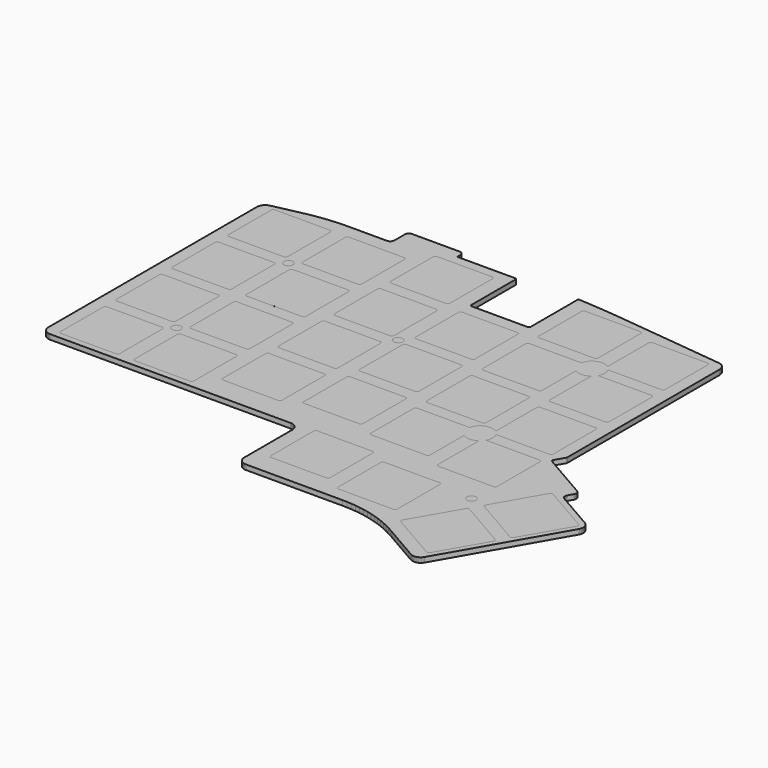
from build123d import *

# Parameters (mm, degrees)
EXTRUDE_DEPTH    = 1.2
FACE001_R        = 1.1
EXTRUDE001_DEPTH = 1.2
FACE002_R        = 1.1
EXTRUDE002_DEPTH = 1.2
FACE003_R        = 1.1
EXTRUDE003_DEPTH = 1.2
FACE004_R        = 1.1
EXTRUDE004_DEPTH = 1.2
EXTRUDE005_DEPTH = 1.2
EXTRUDE006_DEPTH = 1.2
EXTRUDE007_DEPTH = 1.2
EXTRUDE008_DEPTH = 1.2
EXTRUDE009_DEPTH = 1.2
EXTRUDE010_DEPTH = 1.2
EXTRUDE011_DEPTH = 1.2
EXTRUDE012_DEPTH = 1.2
EXTRUDE013_DEPTH = 1.2
EXTRUDE014_DEPTH = 1.2
EXTRUDE015_DEPTH = 1.2
EXTRUDE016_DEPTH = 1.2
EXTRUDE017_DEPTH = 1.2
EXTRUDE018_DEPTH = 1.2
EXTRUDE019_DEPTH = 1.2
EXTRUDE020_DEPTH = 1.2
EXTRUDE021_DEPTH = 1.2
EXTRUDE022_DEPTH = 1.2
EXTRUDE023_DEPTH = 1.2
EXTRUDE024_DEPTH = 1.2
EXTRUDE025_DEPTH = 1.2
EXTRUDE026_DEPTH = 1.2
EXTRUDE027_DEPTH = 1.2


with BuildPart() as extrude_body:
    # Face → Extrude (new body)
    with BuildSketch(Plane(origin=(83.528561, -187.454563, 0), x_dir=(0, 1, 0), z_dir=(0, 0, 1))):
        with BuildLine():
            Line((-46.74408, -1.999309), (-46.764437, -2.283939))
            Line((-46.764437, -2.283939), (-46.764437, -25.713963))
            Line((-46.764437, -25.713963), (-46.785404, -26.835699))
            Line((-46.785404, -26.835699), (-46.848312, -27.955866))
            Line((-46.848312, -27.955866), (-46.953061, -29.072898))
            Line((-46.953061, -29.072898), (-47.099503, -30.185232))
            Line((-47.099503, -30.185232), (-47.287434, -31.291312))
            Line((-47.287434, -31.291312), (-47.516592, -32.389592))
            Line((-47.516592, -32.389592), (-47.786656, -33.478535))
            Line((-47.786656, -33.478535), (-48.097247, -34.556619))
            Line((-48.097247, -34.556619), (-48.447932, -35.622336))
            Line((-48.447932, -35.622336), (-48.83822, -36.674194))
            Line((-48.83822, -36.674194), (-49.267566, -37.710724))
            Line((-49.267566, -37.710724), (-49.735369, -38.730476))
            Line((-49.735369, -38.730476), (-50.240974, -39.732022))
            Line((-50.240974, -39.732022), (-50.783674, -40.713963))
            Line((-50.783674, -40.713963), (-56.024922, -49.792071))
            Line((-56.024922, -49.792071), (-56.149674, -50.049063))
            Line((-56.149674, -50.049063), (-56.236602, -50.321181))
            Line((-56.236602, -50.321181), (-56.283873, -50.602909))
            Line((-56.283873, -50.602909), (-56.290523, -50.888497))
            Line((-56.290523, -50.888497), (-56.256416, -51.172119))
            Line((-56.256416, -51.172119), (-56.182248, -51.447989))
            Line((-56.182248, -51.447989), (-56.069532, -51.710477))
            Line((-56.069532, -51.710477), (-55.920568, -51.954228))
            Line((-55.920568, -51.954228), (-55.738395, -52.174269))
            Line((-55.738395, -52.174269), (-55.526731, -52.366111))
            Line((-55.526731, -52.366111), (-55.289893, -52.525838))
            Line((-55.289893, -52.525838), (-28.044804, -68.193418))
            Line((-28.044804, -68.193418), (-27.787888, -68.317606))
            Line((-27.787888, -68.317606), (-27.515938, -68.40403))
            Line((-27.515938, -68.40403), (-27.234457, -68.45087))
            Line((-27.234457, -68.45087), (-26.949174, -68.457176))
            Line((-26.949174, -68.457176), (-26.665898, -68.422817))
            Line((-26.665898, -68.422817), (-26.390396, -68.348493))
            Line((-26.390396, -68.348493), (-26.128274, -68.235718))
            Line((-26.128274, -68.235718), (-25.884871, -68.086786))
            Line((-25.884871, -68.086786), (-25.66514, -67.904731))
            Line((-25.66514, -67.904731), (-25.473554, -67.693258))
            Line((-25.473554, -67.693258), (-25.314015, -67.456672))
            Line((-25.314015, -67.456672), (-19.989485, -58.197597))
            Line((-19.989485, -58.197597), (-19.875475, -58.037864))
            Line((-19.875475, -58.037864), (-19.732419, -57.903512))
            Line((-19.732419, -57.903512), (-19.565879, -57.799686))
            Line((-19.565879, -57.799686), (-19.382269, -57.730384))
            Line((-19.382269, -57.730384), (-19.18866, -57.698275))
            Line((-19.18866, -57.698275), (-18.992508, -57.704596))
            Line((-18.992508, -57.704596), (-18.801368, -57.749103))
            Line((-18.801368, -57.749103), (-18.622601, -57.830082))
            Line((-18.622601, -57.830082), (-17.408027, -58.531317))
            Line((-17.408027, -58.531317), (-17.229463, -58.61221))
            Line((-17.229463, -58.61221), (-17.038552, -58.65672))
            Line((-17.038552, -58.65672), (-16.842625, -58.663132))
            Line((-16.842625, -58.663132), (-16.649212, -58.631199))
            Line((-16.649212, -58.631199), (-16.465744, -58.562148))
            Line((-16.465744, -58.562148), (-16.299272, -58.458633))
            Line((-16.299272, -58.458633), (-16.156192, -58.324631))
            Line((-16.156192, -58.324631), (-16.042002, -58.165291))
            Line((-16.042002, -58.165291), (-15.35662, -56.978176))
            Line((-15.35662, -56.978176), (-10.781694, -49.054171))
            Line((-10.781694, -49.054171), (-9.550748, -46.922151))
            ThreePointArc((-9.550748, -46.922151), (-9.247141, -46.68919), (-8.86773, -46.739147))
            Line((-8.86773, -46.739147), (-6.632956, -48.029447))
            ThreePointArc((-6.632956, -48.029447), (-6.512363, -48.0794), (-6.382949, -48.096439))
            Line((-6.382949, -48.096439), (39.834935, -48.096439))
            Line((39.834935, -48.096439), (40.126083, -48.075109))
            Line((40.126083, -48.075109), (40.411029, -48.01165))
            Line((40.411029, -48.01165), (40.683701, -47.907386))
            Line((40.683701, -47.907386), (40.93829, -47.764538))
            Line((40.93829, -47.764538), (41.169372, -47.58615))
            Line((41.169372, -47.58615), (41.372023, -47.376022))
            Line((41.372023, -47.376022), (41.541925, -47.138632))
            Line((41.541925, -47.138632), (41.675459, -46.879036))
            Line((41.675459, -46.879036), (41.76978, -46.602767))
            Line((41.76978, -46.602767), (41.822878, -46.31571))
            Line((41.822878, -46.31571), (44.670839, -20.495626))
            Line((44.670839, -20.495626), (44.953186, -17.763796))
            Line((44.953186, -17.763796), (45.197998, -15.028347))
            Line((45.197998, -15.028347), (45.405225, -12.289794))
            Line((45.405225, -12.289794), (45.574828, -9.548654))
            Line((45.574828, -9.548654), (45.580369, -9.43345))
            ThreePointArc((45.580369, -9.43345), (45.511631, -9.248961), (45.330658, -9.171439))
            Line((45.330658, -9.171439), (31.204563, -9.171439))
            ThreePointArc((31.204563, -9.171439), (30.85101, -9.024992), (30.704563, -8.671439))
            Line((30.704563, -8.671439), (30.704563, 4.728561))
            ThreePointArc((30.704563, 4.728561), (30.85101, 5.082115), (31.204563, 5.228561))
            Line((31.204563, 5.228561), (44.626457, 5.228561))
            ThreePointArc((44.626457, 5.228561), (44.803234, 5.301785), (44.876457, 5.478562))
            Line((44.876457, 5.478562), (44.876438, 19.434811))
            ThreePointArc((44.876438, 19.434811), (44.949661, 19.611588), (45.126438, 19.684811))
            Line((45.126438, 19.684811), (45.845213, 19.684811))
            Line((45.845213, 19.684811), (46.040307, 19.704017))
            Line((46.040307, 19.704017), (46.227904, 19.760918))
            Line((46.227904, 19.760918), (46.400795, 19.853326))
            Line((46.400795, 19.853326), (46.552334, 19.97769))
            Line((46.552334, 19.97769), (46.676698, 20.129229))
            Line((46.676698, 20.129229), (46.769106, 20.30212))
            Line((46.769106, 20.30212), (46.826007, 20.489717))
            Line((46.826007, 20.489717), (46.845213, 20.684811))
            Line((46.845213, 20.684811), (46.845213, 32.184811))
            Line((46.845213, 32.184811), (46.826007, 32.379905))
            Line((46.826007, 32.379905), (46.769106, 32.567502))
            Line((46.769106, 32.567502), (46.676698, 32.740393))
            Line((46.676698, 32.740393), (46.552334, 32.891932))
            Line((46.552334, 32.891932), (46.400795, 33.016296))
            Line((46.400795, 33.016296), (46.227904, 33.108704))
            Line((46.227904, 33.108704), (46.040307, 33.165605))
            Line((46.040307, 33.165605), (45.845213, 33.184811))
            Line((45.845213, 33.184811), (42.688963, 33.184811))
            Line((42.688963, 33.184811), (42.493879, 33.204074))
            Line((42.493879, 33.204074), (42.306291, 33.260977))
            Line((42.306291, 33.260977), (42.133408, 33.353381))
            Line((42.133408, 33.353381), (41.981874, 33.477737))
            Line((41.981874, 33.477737), (41.857511, 33.629265))
            Line((41.857511, 33.629265), (41.765098, 33.802143))
            Line((41.765098, 33.802143), (41.708186, 33.989728))
            Line((41.708186, 33.989728), (41.688963, 34.184811))
            Line((41.688963, 34.184811), (41.688963, 43.251887))
            Line((41.688963, 43.251887), (41.666073, 44.76484))
            Line((41.666073, 44.76484), (41.597406, 46.276407))
            Line((41.597406, 46.276407), (41.483033, 47.785204))
            Line((41.483033, 47.785204), (41.323057, 49.28985))
            Line((41.323057, 49.28985), (41.117625, 50.788966))
            Line((41.117625, 50.788966), (40.866926, 52.281179))
            Line((40.866926, 52.281179), (40.571188, 53.765123))
            Line((40.571188, 53.765123), (39.106765, 60.57409))
            Line((39.106765, 60.57409), (39.031754, 60.835106))
            Line((39.031754, 60.835106), (38.922086, 61.083559))
            Line((38.922086, 61.083559), (38.779768, 61.314863))
            Line((38.779768, 61.314863), (38.607427, 61.524753))
            Line((38.607427, 61.524753), (38.408239, 61.709361))
            Line((38.408239, 61.709361), (38.185878, 61.865281))
            Line((38.185878, 61.865281), (37.944443, 61.989639))
            Line((37.944443, 61.989639), (37.688386, 62.080142))
            Line((37.688386, 62.080142), (37.422429, 62.13512))
            Line((37.422429, 62.13512), (37.151476, 62.153561))
            Line((37.151476, 62.153561), (-26.170437, 62.153561))
            Line((-26.170437, 62.153561), (-26.455067, 62.133204))
            Line((-26.455067, 62.133204), (-26.733902, 62.072547))
            Line((-26.733902, 62.072547), (-27.001267, 61.972825))
            Line((-27.001267, 61.972825), (-27.251719, 61.836068))
            Line((-27.251719, 61.836068), (-27.480158, 61.66506))
            Line((-27.480158, 61.66506), (-27.681936, 61.463282))
            Line((-27.681936, 61.463282), (-27.852944, 61.234843))
            Line((-27.852944, 61.234843), (-27.989701, 60.984391))
            Line((-27.989701, 60.984391), (-28.089423, 60.717026))
            Line((-28.089423, 60.717026), (-28.15008, 60.438191))
            Line((-28.15008, 60.438191), (-28.170437, 60.153561))
            Line((-28.170437, 60.153561), (-28.170437, 1.716061))
            Line((-28.170437, 1.716061), (-28.190794, 1.431431))
            Line((-28.190794, 1.431431), (-28.251451, 1.152596))
            Line((-28.251451, 1.152596), (-28.351173, 0.885231))
            Line((-28.351173, 0.885231), (-28.48793, 0.634779))
            Line((-28.48793, 0.634779), (-28.658938, 0.40634))
            Line((-28.658938, 0.40634), (-28.860716, 0.204562))
            Line((-28.860716, 0.204562), (-29.089155, 0.033554))
            Line((-29.089155, 0.033554), (-29.339607, -0.103203))
            Line((-29.339607, -0.103203), (-29.606972, -0.202925))
            Line((-29.606972, -0.202925), (-29.885807, -0.263582))
            Line((-29.885807, -0.263582), (-30.170437, -0.283939))
            Line((-30.170437, -0.283939), (-44.764437, -0.283939))
            Line((-44.764437, -0.283939), (-45.049067, -0.304296))
            Line((-45.049067, -0.304296), (-45.327902, -0.364953))
            Line((-45.327902, -0.364953), (-45.595267, -0.464675))
            Line((-45.595267, -0.464675), (-45.845719, -0.601432))
            Line((-45.845719, -0.601432), (-46.074158, -0.77244))
            Line((-46.074158, -0.77244), (-46.275936, -0.974218))
            Line((-46.275936, -0.974218), (-46.446944, -1.202657))
            Line((-46.446944, -1.202657), (-46.583701, -1.453109))
            Line((-46.583701, -1.453109), (-46.683423, -1.720474))
            Line((-46.683423, -1.720474), (-46.74408, -1.999309))
        make_face()
    extrude(amount=EXTRUDE_DEPTH)


with BuildPart() as extrude001:
    # Face001 → Extrude001 (new body)
    with BuildSketch(Plane(origin=(76.5, -176.3125, 0), x_dir=(0, 1, 0), z_dir=(0, 0, 1))):
        Circle(FACE001_R)
    extrude(amount=EXTRUDE001_DEPTH)


with BuildPart() as extrude002:
    # Face002 → Extrude002 (new body)
    with BuildSketch(Plane(origin=(40.5, -164.625, 0), x_dir=(0, 1, 0), z_dir=(0, 0, 1))):
        Circle(FACE002_R)
    extrude(amount=EXTRUDE002_DEPTH)


with BuildPart() as extrude003:
    # Face003 → Extrude003 (new body)
    with BuildSketch(Plane(origin=(128, -218.4375, 0), x_dir=(0, 1, 0), z_dir=(0, 0, 1))):
        Circle(FACE003_R)
    extrude(amount=EXTRUDE003_DEPTH)


with BuildPart() as extrude004:
    # Face004 → Extrude004 (new body)
    with BuildSketch(Plane(origin=(40.5, -198.625, 0), x_dir=(0, 1, 0), z_dir=(0, 0, 1))):
        Circle(FACE004_R)
    extrude(amount=EXTRUDE004_DEPTH)


with BuildPart() as extrude005:
    # Face005 → Extrude005 (new body)
    with BuildSketch(Plane(origin=(141.250018, -216.764028, 0), x_dir=(0, 1, 0), z_dir=(0, 0, 1))):
        with BuildLine():
            Line((2.712311, -9.302663), (9.412337, 2.302706))
            ThreePointArc((9.412337, 2.302706), (9.46228, 2.682112), (9.229319, 2.98571))
            Line((9.229319, 2.98571), (-2.029054, 9.485718))
            ThreePointArc((-2.029054, 9.485718), (-2.408463, 9.535668), (-2.712066, 9.302706))
            Line((-2.712066, 9.302706), (-9.412458, -2.302658))
            ThreePointArc((-9.412458, -2.302658), (-9.462408, -2.682072), (-9.22944, -2.985676))
            Line((-9.22944, -2.985676), (2.0293, -9.485689))
            ThreePointArc((2.0293, -9.485689), (2.408711, -9.535633), (2.712311, -9.302663))
        make_face()
    extrude(amount=EXTRUDE005_DEPTH)


with BuildPart() as extrude006:
    # Face006 → Extrude006 (new body)
    with BuildSketch(Plane(origin=(103.5, -185.875, 0), x_dir=(0, 1, 0), z_dir=(0, 0, 1))):
        with BuildLine():
            ThreePointArc((6.5, -7.2), (6.853553, -7.053553), (7, -6.7))
            Line((7, -6.7), (7, 6.7))
            ThreePointArc((7, 6.7), (6.853553, 7.053553), (6.5, 7.2))
            Line((6.5, 7.2), (-6.5, 7.2))
            ThreePointArc((-6.5, 7.2), (-6.853553, 7.053553), (-7, 6.7))
            Line((-7, 6.7), (-7, -6.7))
            ThreePointArc((-7, -6.7), (-6.853553, -7.053553), (-6.5, -7.2))
            Line((-6.5, -7.2), (6.5, -7.2))
        make_face()
    extrude(amount=EXTRUDE006_DEPTH)


with BuildPart() as extrude007:
    # Face007 → Extrude007 (new body)
    with BuildSketch(Plane(origin=(67.5, -202.875, 0), x_dir=(0, 1, 0), z_dir=(0, 0, 1))):
        with BuildLine():
            ThreePointArc((7, 6.7), (6.853553, 7.053553), (6.5, 7.2))
            Line((6.5, 7.2), (-6.5, 7.2))
            ThreePointArc((-6.5, 7.2), (-6.853553, 7.053553), (-7, 6.7))
            Line((-7, 6.7), (-7, -6.7))
            ThreePointArc((-7, -6.7), (-6.853553, -7.053553), (-6.5, -7.2))
            Line((-6.5, -7.2), (6.5, -7.2))
            ThreePointArc((6.5, -7.2), (6.853553, -7.053553), (7, -6.7))
            Line((7, -6.7), (7, 6.7))
        make_face()
    extrude(amount=EXTRUDE007_DEPTH)


with BuildPart() as extrude008:
    # Face008 → Extrude008 (new body)
    with BuildSketch(Plane(origin=(31.5, -190.125, 0), x_dir=(0, 1, 0), z_dir=(0, 0, 1))):
        with BuildLine():
            ThreePointArc((7, 6.7), (6.853553, 7.053553), (6.5, 7.2))
            Line((6.5, 7.2), (-6.5, 7.2))
            ThreePointArc((-6.5, 7.2), (-6.853553, 7.053553), (-7, 6.7))
            Line((-7, 6.7), (-7, -6.7))
            ThreePointArc((-7, -6.7), (-6.853553, -7.053553), (-6.5, -7.2))
            Line((-6.5, -7.2), (6.5, -7.2))
            ThreePointArc((6.5, -7.2), (6.853553, -7.053553), (7, -6.7))
            Line((7, -6.7), (7, 6.7))
        make_face()
    extrude(amount=EXTRUDE008_DEPTH)


with BuildPart() as extrude009:
    # Face009 → Extrude009 (new body)
    with BuildSketch(Plane(origin=(85.5, -166.75, 0), x_dir=(0, 1, 0), z_dir=(0, 0, 1))):
        with BuildLine():
            ThreePointArc((7, 6.7), (6.853553, 7.053553), (6.5, 7.2))
            Line((6.5, 7.2), (-6.5, 7.2))
            ThreePointArc((-6.5, 7.2), (-6.853553, 7.053553), (-7, 6.7))
            Line((-7, 6.7), (-7, -6.7))
            ThreePointArc((-7, -6.7), (-6.853553, -7.053553), (-6.5, -7.2))
            Line((-6.5, -7.2), (6.5, -7.2))
            ThreePointArc((6.5, -7.2), (6.853553, -7.053553), (7, -6.7))
            Line((7, -6.7), (7, 6.7))
        make_face()
    extrude(amount=EXTRUDE009_DEPTH)


with BuildPart() as extrude010:
    # Face010 → Extrude010 (new body)
    with BuildSketch(Plane(origin=(103.5, -151.875, 0), x_dir=(0, 1, 0), z_dir=(0, 0, 1))):
        with BuildLine():
            ThreePointArc((7, 6.7), (6.853553, 7.053553), (6.5, 7.2))
            Line((6.5, 7.2), (-6.5, 7.2))
            ThreePointArc((-6.5, 7.2), (-6.853553, 7.053553), (-7, 6.7))
            Line((-7, 6.7), (-7, -6.7))
            ThreePointArc((-7, -6.7), (-6.853553, -7.053553), (-6.5, -7.2))
            Line((-6.5, -7.2), (6.5, -7.2))
            ThreePointArc((6.5, -7.2), (6.853553, -7.053553), (7, -6.7))
            Line((7, -6.7), (7, 6.7))
        make_face()
    extrude(amount=EXTRUDE010_DEPTH)


with BuildPart() as extrude011:
    # Face011 → Extrude011 (new body)
    with BuildSketch(Plane(origin=(31.5, -156.125, 0), x_dir=(0, 1, 0), z_dir=(0, 0, 1))):
        with BuildLine():
            ThreePointArc((7, 6.7), (6.853553, 7.053553), (6.5, 7.2))
            Line((6.5, 7.2), (-6.5, 7.2))
            ThreePointArc((-6.5, 7.2), (-6.853553, 7.053553), (-7, 6.7))
            Line((-7, 6.7), (-7, -6.7))
            ThreePointArc((-7, -6.7), (-6.853553, -7.053553), (-6.5, -7.2))
            Line((-6.5, -7.2), (6.5, -7.2))
            ThreePointArc((6.5, -7.2), (6.853553, -7.053553), (7, -6.7))
            Line((7, -6.7), (7, 6.7))
        make_face()
    extrude(amount=EXTRUDE011_DEPTH)


with BuildPart() as extrude012:
    # Face012 → Extrude012 (new body)
    with BuildSketch(Plane(origin=(67.5, -151.875, 0), x_dir=(0, 1, 0), z_dir=(0, 0, 1))):
        with BuildLine():
            ThreePointArc((6.5, -7.2), (6.853553, -7.053553), (7, -6.7))
            Line((7, -6.7), (7, 6.7))
            ThreePointArc((7, 6.7), (6.853553, 7.053553), (6.5, 7.2))
            Line((6.5, 7.2), (-6.5, 7.2))
            ThreePointArc((-6.5, 7.2), (-6.853553, 7.053553), (-7, 6.7))
            Line((-7, 6.7), (-7, -6.7))
            ThreePointArc((-7, -6.7), (-6.853553, -7.053553), (-6.5, -7.2))
            Line((-6.5, -7.2), (6.5, -7.2))
        make_face()
    extrude(amount=EXTRUDE012_DEPTH)


with BuildPart() as extrude013:
    # Face013 → Extrude013 (new body)
    with BuildSketch(Plane(origin=(31.5, -173.125, 0), x_dir=(0, 1, 0), z_dir=(0, 0, 1))):
        with BuildLine():
            ThreePointArc((6.5, -7.2), (6.853553, -7.053553), (7, -6.7))
            Line((7, -6.7), (7, 6.7))
            ThreePointArc((7, 6.7), (6.853553, 7.053553), (6.5, 7.2))
            Line((6.5, 7.2), (-6.5, 7.2))
            ThreePointArc((-6.5, 7.2), (-6.853553, 7.053553), (-7, 6.7))
            Line((-7, 6.7), (-7, -6.7))
            ThreePointArc((-7, -6.7), (-6.853553, -7.053553), (-6.5, -7.2))
            Line((-6.5, -7.2), (6.5, -7.2))
        make_face()
    extrude(amount=EXTRUDE013_DEPTH)


with BuildPart() as extrude014:
    # Face014 → Extrude014 (new body)
    with BuildSketch(Plane(origin=(49.5, -207.125, 0), x_dir=(0, 1, 0), z_dir=(0, 0, 1))):
        with BuildLine():
            ThreePointArc((7, 6.7), (6.853553, 7.053553), (6.5, 7.2))
            Line((6.5, 7.2), (-6.5, 7.2))
            ThreePointArc((-6.5, 7.2), (-6.853553, 7.053553), (-7, 6.7))
            Line((-7, 6.7), (-7, -6.7))
            ThreePointArc((-7, -6.7), (-6.853553, -7.053553), (-6.5, -7.2))
            Line((-6.5, -7.2), (6.5, -7.2))
            ThreePointArc((6.5, -7.2), (6.853553, -7.053553), (7, -6.7))
            Line((7, -6.7), (7, 6.7))
        make_face()
    extrude(amount=EXTRUDE014_DEPTH)


with BuildPart() as extrude015:
    # Face015 → Extrude015 (new body)
    with BuildSketch(Plane(origin=(85.5, -200.75, 0), x_dir=(0, 1, 0), z_dir=(0, 0, 1))):
        with BuildLine():
            ThreePointArc((-7, -6.7), (-6.853553, -7.053553), (-6.5, -7.2))
            Line((-6.5, -7.2), (6.5, -7.2))
            ThreePointArc((6.5, -7.2), (6.853553, -7.053553), (7, -6.7))
            Line((7, -6.7), (7, 6.7))
            ThreePointArc((7, 6.7), (6.853553, 7.053553), (6.5, 7.2))
            Line((6.5, 7.2), (-6.5, 7.2))
            ThreePointArc((-6.5, 7.2), (-6.853553, 7.053553), (-7, 6.7))
            Line((-7, 6.7), (-7, -6.7))
        make_face()
    extrude(amount=EXTRUDE015_DEPTH)


with BuildPart() as extrude016:
    # Face016 → Extrude016 (new body)
    with BuildSketch(Plane(origin=(115.38354, -198.533525, 0), x_dir=(0, 1, 0), z_dir=(0, 0, 1))):
        with BuildLine():
            ThreePointArc((-11.341475, 5.18354), (-11.195029, 4.829987), (-10.841475, 4.68354))
            Line((-10.841475, 4.68354), (-0.490361, 4.68354))
            ThreePointArc((-0.490361, 4.68354), (-1.066475, 2.88354), (-0.490361, 1.08354))
            Line((-0.490361, 1.08354), (-12.966475, 1.08354))
            ThreePointArc((-12.966475, 1.08354), (-13.320029, 0.937093), (-13.466475, 0.58354))
            Line((-13.466475, 0.58354), (-13.466475, -12.81646))
            ThreePointArc((-13.466475, -12.81646), (-13.320029, -13.170013), (-12.966475, -13.31646))
            Line((-12.966475, -13.31646), (0.033525, -13.31646))
            ThreePointArc((0.033525, -13.31646), (0.387078, -13.170013), (0.533525, -12.81646))
            Line((0.533525, -12.81646), (0.533525, 0.170608))
            ThreePointArc((0.533525, 0.170608), (2.033525, -0.21646), (3.533525, 0.170608))
            Line((3.533525, 0.170608), (3.533525, -12.81646))
            ThreePointArc((3.533525, -12.81646), (3.679971, -13.170013), (4.033525, -13.31646))
            Line((4.033525, -13.31646), (17.033525, -13.31646))
            ThreePointArc((17.033525, -13.31646), (17.387078, -13.170013), (17.533525, -12.81646))
            Line((17.533525, -12.81646), (17.533525, 0.58354))
            ThreePointArc((17.533525, 0.58354), (17.387078, 0.937093), (17.033525, 1.08354))
            Line((17.033525, 1.08354), (4.55741, 1.08354))
            ThreePointArc((4.55741, 1.08354), (4.919079, 4.016491), (2.658525, 5.919882))
            Line((2.658525, 5.919882), (2.658525, 18.58354))
            ThreePointArc((2.658525, 18.58354), (2.512078, 18.937093), (2.158525, 19.08354))
            Line((2.158525, 19.08354), (-10.841475, 19.08354))
            ThreePointArc((-10.841475, 19.08354), (-11.195029, 18.937093), (-11.341475, 18.58354))
            Line((-11.341475, 18.58354), (-11.341475, 5.18354))
        make_face()
    extrude(amount=EXTRUDE016_DEPTH)


with BuildPart() as extrude017:
    # Face017 → Extrude017 (new body)
    with BuildSketch(Plane(origin=(94.5, -222, 0), x_dir=(0, 1, 0), z_dir=(0, 0, 1))):
        with BuildLine():
            Line((7, -6.7), (7, 6.7))
            ThreePointArc((7, 6.7), (6.853553, 7.053553), (6.5, 7.2))
            Line((6.5, 7.2), (-6.5, 7.2))
            ThreePointArc((-6.5, 7.2), (-6.853553, 7.053553), (-7, 6.7))
            Line((-7, 6.7), (-7, -6.7))
            ThreePointArc((-7, -6.7), (-6.853553, -7.053553), (-6.5, -7.2))
            Line((-6.5, -7.2), (6.5, -7.2))
            ThreePointArc((6.5, -7.2), (6.853553, -7.053553), (7, -6.7))
        make_face()
    extrude(amount=EXTRUDE017_DEPTH)


with BuildPart() as extrude018:
    # Face018 → Extrude018 (new body)
    with BuildSketch(Plane(origin=(132.75, -231.4865, 0), x_dir=(0, 1, 0), z_dir=(0, 0, 1))):
        with BuildLine():
            ThreePointArc((9.412014, 2.302698), (9.461958, 2.6821), (9.229002, 2.985698))
            Line((9.229002, 2.985698), (-2.02897, 9.485681))
            ThreePointArc((-2.02897, 9.485681), (-2.408387, 9.535634), (-2.711993, 9.302662))
            Line((-2.711993, 9.302662), (-9.412014, -2.302698))
            ThreePointArc((-9.412014, -2.302698), (-9.461958, -2.6821), (-9.229002, -2.985698))
            Line((-9.229002, -2.985698), (2.02897, -9.485681))
            ThreePointArc((2.02897, -9.485681), (2.408387, -9.535634), (2.711993, -9.302662))
            Line((2.711993, -9.302662), (9.412014, 2.302698))
        make_face()
    extrude(amount=EXTRUDE018_DEPTH)


with BuildPart() as extrude019:
    # Face019 → Extrude019 (new body)
    with BuildSketch(Plane(origin=(67.5, -185.875, 0), x_dir=(0, 1, 0), z_dir=(0, 0, 1))):
        with BuildLine():
            Line((7, -6.7), (7, 6.7))
            ThreePointArc((7, 6.7), (6.853553, 7.053553), (6.5, 7.2))
            Line((6.5, 7.2), (-6.5, 7.2))
            ThreePointArc((-6.5, 7.2), (-6.853553, 7.053553), (-7, 6.7))
            Line((-7, 6.7), (-7, -6.7))
            ThreePointArc((-7, -6.7), (-6.853553, -7.053553), (-6.5, -7.2))
            Line((-6.5, -7.2), (6.5, -7.2))
            ThreePointArc((6.5, -7.2), (6.853553, -7.053553), (7, -6.7))
        make_face()
    extrude(amount=EXTRUDE019_DEPTH)


with BuildPart() as extrude020:
    # Face020 → Extrude020 (new body)
    with BuildSketch(Plane(origin=(49.5, -190.125, 0), x_dir=(0, 1, 0), z_dir=(0, 0, 1))):
        with BuildLine():
            ThreePointArc((7, 6.7), (6.853553, 7.053553), (6.5, 7.2))
            Line((6.5, 7.2), (-6.5, 7.2))
            ThreePointArc((-6.5, 7.2), (-6.853553, 7.053553), (-7, 6.7))
            Line((-7, 6.7), (-7, -6.7))
            ThreePointArc((-7, -6.7), (-6.853553, -7.053553), (-6.5, -7.2))
            Line((-6.5, -7.2), (6.5, -7.2))
            ThreePointArc((6.5, -7.2), (6.853553, -7.053553), (7, -6.7))
            Line((7, -6.7), (7, 6.7))
        make_face()
    extrude(amount=EXTRUDE020_DEPTH)


with BuildPart() as extrude021:
    # Face021 → Extrude021 (new body)
    with BuildSketch(Plane(origin=(67.5, -168.875, 0), x_dir=(0, 1, 0), z_dir=(0, 0, 1))):
        with BuildLine():
            ThreePointArc((7, 6.7), (6.853553, 7.053553), (6.5, 7.2))
            Line((6.5, 7.2), (-6.5, 7.2))
            ThreePointArc((-6.5, 7.2), (-6.853553, 7.053553), (-7, 6.7))
            Line((-7, 6.7), (-7, -6.7))
            ThreePointArc((-7, -6.7), (-6.853553, -7.053553), (-6.5, -7.2))
            Line((-6.5, -7.2), (6.5, -7.2))
            ThreePointArc((6.5, -7.2), (6.853553, -7.053553), (7, -6.7))
            Line((7, -6.7), (7, 6.7))
        make_face()
    extrude(amount=EXTRUDE021_DEPTH)


with BuildPart() as extrude022:
    # Face022 → Extrude022 (new body)
    with BuildSketch(Plane(origin=(115.38354, -164.533525, 0), x_dir=(0, 1, 0), z_dir=(0, 0, 1))):
        with BuildLine():
            ThreePointArc((-13.466475, -12.81646), (-13.320029, -13.170013), (-12.966475, -13.31646))
            Line((-12.966475, -13.31646), (0.033525, -13.31646))
            ThreePointArc((0.033525, -13.31646), (0.387078, -13.170013), (0.533525, -12.81646))
            Line((0.533525, -12.81646), (0.533525, 0.170608))
            ThreePointArc((0.533525, 0.170608), (2.033525, -0.21646), (3.533525, 0.170608))
            Line((3.533525, 0.170608), (3.533525, -12.81646))
            ThreePointArc((3.533525, -12.81646), (3.679971, -13.170013), (4.033525, -13.31646))
            Line((4.033525, -13.31646), (17.033525, -13.31646))
            ThreePointArc((17.033525, -13.31646), (17.387078, -13.170013), (17.533525, -12.81646))
            Line((17.533525, -12.81646), (17.533525, 0.58354))
            ThreePointArc((17.533525, 0.58354), (17.387078, 0.937093), (17.033525, 1.08354))
            Line((17.033525, 1.08354), (4.55741, 1.08354))
            ThreePointArc((4.55741, 1.08354), (4.919079, 4.016491), (2.658525, 5.919882))
            Line((2.658525, 5.919882), (2.658525, 18.58354))
            ThreePointArc((2.658525, 18.58354), (2.512078, 18.937093), (2.158525, 19.08354))
            Line((2.158525, 19.08354), (-10.841475, 19.08354))
            ThreePointArc((-10.841475, 19.08354), (-11.195029, 18.937093), (-11.341475, 18.58354))
            Line((-11.341475, 18.58354), (-11.341475, 5.18354))
            ThreePointArc((-11.341475, 5.18354), (-11.195029, 4.829987), (-10.841475, 4.68354))
            Line((-10.841475, 4.68354), (-0.490361, 4.68354))
            ThreePointArc((-0.490361, 4.68354), (-1.066475, 2.88354), (-0.490361, 1.08354))
            Line((-0.490361, 1.08354), (-12.966475, 1.08354))
            ThreePointArc((-12.966475, 1.08354), (-13.320029, 0.937093), (-13.466475, 0.58354))
            Line((-13.466475, 0.58354), (-13.466475, -12.81646))
        make_face()
    extrude(amount=EXTRUDE022_DEPTH)


with BuildPart() as extrude023:
    # Face023 → Extrude023 (new body)
    with BuildSketch(Plane(origin=(49.5, -156.125, 0), x_dir=(0, 1, 0), z_dir=(0, 0, 1))):
        with BuildLine():
            Line((6.5, 7.2), (-6.5, 7.2))
            ThreePointArc((-6.5, 7.2), (-6.853553, 7.053553), (-7, 6.7))
            Line((-7, 6.7), (-7, -6.7))
            ThreePointArc((-7, -6.7), (-6.853553, -7.053553), (-6.5, -7.2))
            Line((-6.5, -7.2), (6.5, -7.2))
            ThreePointArc((6.5, -7.2), (6.853553, -7.053553), (7, -6.7))
            Line((7, -6.7), (7, 6.7))
            ThreePointArc((7, 6.7), (6.853553, 7.053553), (6.5, 7.2))
        make_face()
    extrude(amount=EXTRUDE023_DEPTH)


with BuildPart() as extrude024:
    # Face024 → Extrude024 (new body)
    with BuildSketch(Plane(origin=(49.5, -173.125, 0), x_dir=(0, 1, 0), z_dir=(0, 0, 1))):
        with BuildLine():
            ThreePointArc((7, 6.7), (6.853553, 7.053553), (6.5, 7.2))
            Line((6.5, 7.2), (-6.5, 7.2))
            ThreePointArc((-6.5, 7.2), (-6.853553, 7.053553), (-7, 6.7))
            Line((-7, 6.7), (-7, -6.7))
            ThreePointArc((-7, -6.7), (-6.853553, -7.053553), (-6.5, -7.2))
            Line((-6.5, -7.2), (6.5, -7.2))
            ThreePointArc((6.5, -7.2), (6.853553, -7.053553), (7, -6.7))
            Line((7, -6.7), (7, 6.7))
        make_face()
    extrude(amount=EXTRUDE024_DEPTH)


with BuildPart() as extrude025:
    # Face025 → Extrude025 (new body)
    with BuildSketch(Plane(origin=(31.5, -207.125, 0), x_dir=(0, 1, 0), z_dir=(0, 0, 1))):
        with BuildLine():
            Line((-7, 6.7), (-7, -6.7))
            ThreePointArc((-7, -6.7), (-6.853553, -7.053553), (-6.5, -7.2))
            Line((-6.5, -7.2), (6.5, -7.2))
            ThreePointArc((6.5, -7.2), (6.853553, -7.053553), (7, -6.7))
            Line((7, -6.7), (7, 6.7))
            ThreePointArc((7, 6.7), (6.853553, 7.053553), (6.5, 7.2))
            Line((6.5, 7.2), (-6.5, 7.2))
            ThreePointArc((-6.5, 7.2), (-6.853553, 7.053553), (-7, 6.7))
        make_face()
    extrude(amount=EXTRUDE025_DEPTH)


with BuildPart() as extrude026:
    # Face026 → Extrude026 (new body)
    with BuildSketch(Plane(origin=(85.5, -183.75, 0), x_dir=(0, 1, 0), z_dir=(0, 0, 1))):
        with BuildLine():
            Line((6.5, 7.2), (-6.5, 7.2))
            ThreePointArc((-6.5, 7.2), (-6.853553, 7.053553), (-7, 6.7))
            Line((-7, 6.7), (-7, -6.7))
            ThreePointArc((-7, -6.7), (-6.853553, -7.053553), (-6.5, -7.2))
            Line((-6.5, -7.2), (6.5, -7.2))
            ThreePointArc((6.5, -7.2), (6.853553, -7.053553), (7, -6.7))
            Line((7, -6.7), (7, 6.7))
            ThreePointArc((7, 6.7), (6.853553, 7.053553), (6.5, 7.2))
        make_face()
    extrude(amount=EXTRUDE026_DEPTH)


with BuildPart() as extrude027:
    # Face027 → Extrude027 (new body)
    with BuildSketch(Plane(origin=(112.5, -224.125, 0), x_dir=(0, 1, 0), z_dir=(0, 0, 1))):
        with BuildLine():
            Line((6.5, 7.2), (-6.5, 7.2))
            ThreePointArc((-6.5, 7.2), (-6.853553, 7.053553), (-7, 6.7))
            Line((-7, 6.7), (-7, -6.7))
            ThreePointArc((-7, -6.7), (-6.853553, -7.053553), (-6.5, -7.2))
            Line((-6.5, -7.2), (6.5, -7.2))
            ThreePointArc((6.5, -7.2), (6.853553, -7.053553), (7, -6.7))
            Line((7, -6.7), (7, 6.7))
            ThreePointArc((7, 6.7), (6.853553, 7.053553), (6.5, 7.2))
        make_face()
    extrude(amount=EXTRUDE027_DEPTH)


solid = Compound([extrude_body.part, extrude001.part, extrude002.part, extrude003.part, extrude004.part, extrude005.part, extrude006.part, extrude007.part, extrude008.part, extrude009.part, extrude010.part, extrude011.part, extrude012.part, extrude013.part, extrude014.part, extrude015.part, extrude016.part, extrude017.part, extrude018.part, extrude019.part, extrude020.part, extrude021.part, extrude022.part, extrude023.part, extrude024.part, extrude025.part, extrude026.part, extrude027.part])
